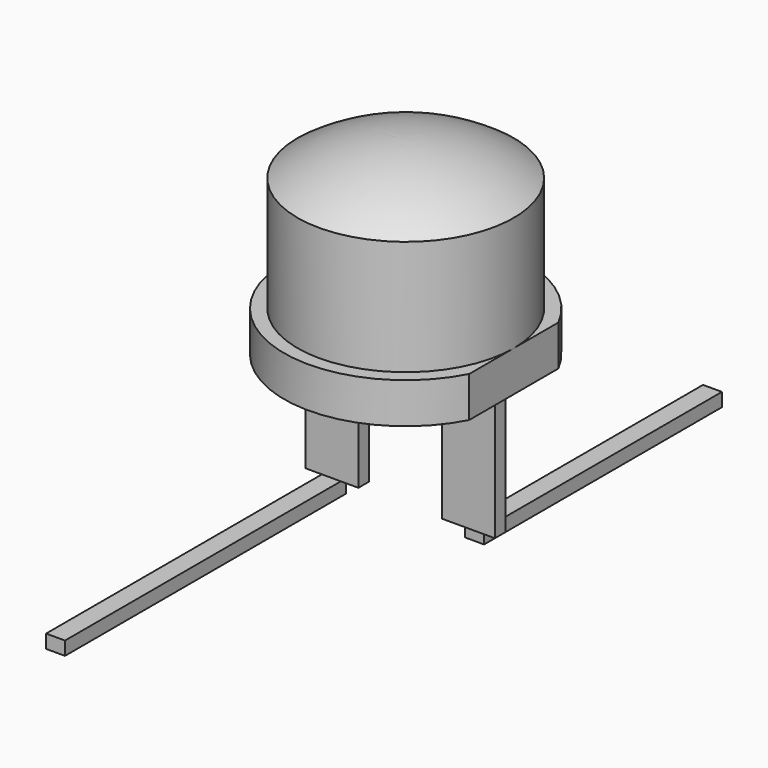
from build123d import *

# Parameters (mm, degrees)
F3_DEPTH  = 7.001
F4_W      = 1.95
F4_H      = 0.5
F5_DEPTH  = 4.75
F8_W      = 0.7
F8_H      = 0.5
F9_DEPTH  = 13.0048
F10_W     = 0.7
F10_H     = 0.5
F11_DEPTH = 10.9982


with BuildPart() as f1:
    # F0 (on Front) → F1 (revolve)
    with BuildSketch(Plane.XZ):
        with BuildLine():
            Line((-4.5, 0), (0, 0))
            Line((0, 0), (0, 7))
            ThreePointArc((0, 7), (-2.096194, 6.67877), (-4, 5.744563))
            Line((-4, 5.744563), (-4, 1.5))
            Line((-4, 1.5), (-4.5, 1.5))
            Line((-4.5, 1.5), (-4.5, 0))
        make_face()
    revolve(axis=Axis((0, 0, 3.5), (0, 0, 1)))

    # F2 (on face) → F3 (cut, through all)
    with BuildSketch(Plane(origin=(0, 0, 0), x_dir=(1, 0, 0), z_dir=(0, 0, -1))):
        with BuildLine():
            ThreePointArc((4, -2.061553), (4.5, 0), (4, 2.061553))
            Line((4, 2.061553), (4, -2.061553))
        make_face()
    extrude(amount=-F3_DEPTH, mode=Mode.SUBTRACT)

    # F4 (on face) → F5 (join)
    with BuildSketch(Plane(origin=(0, 0, 0), x_dir=(1, 0, 0), z_dir=(0, 0, -1))):
        with Locations((2.525, 0)):
            Rectangle(F4_W, F4_H)
        with Locations((-2.525, 0)):
            Rectangle(F4_W, F4_H)
    extrude(amount=F5_DEPTH)

    # F8 (on Front) → F9 (join)
    with BuildSketch(Plane.XZ):
        with Locations((-2.55, -5)):
            Rectangle(F8_W, F8_H)
    extrude(amount=F9_DEPTH)

    # F10 (on Front) → F11 (join)
    with BuildSketch(Plane.XZ):
        with Locations((2.55, -5)):
            Rectangle(F10_W, F10_H)
    extrude(amount=-F11_DEPTH)


solid = f1.part
